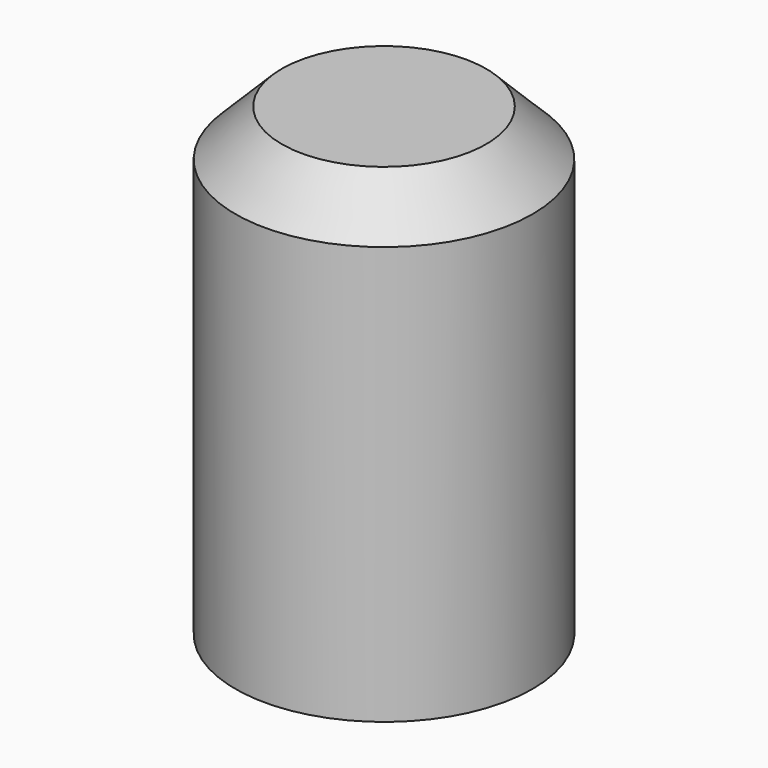
from build123d import *

# Parameters (mm, degrees)
F0_W    = 16
F0_H    = 50
F2_SIZE = 5


with BuildPart() as f1:
    # F0 (on Front) → F1 (revolve)
    with BuildSketch(Plane.XZ):
        with Locations((-8, 25)):
            Rectangle(F0_W, F0_H)
    revolve(axis=Axis((0, 0, 25), (0, 0, -1)))

    # F2
    f2_edges = [f1.edges().sort_by_distance(p)[0] for p in [
        (16, 0, 50),
    ]]
    chamfer(f2_edges, length=F2_SIZE)


solid = f1.part
